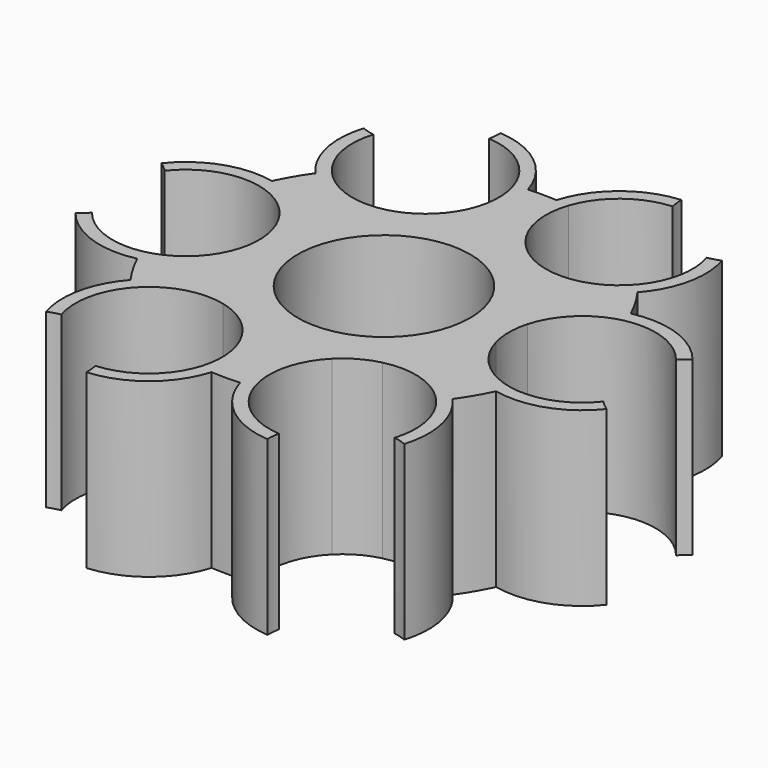
from build123d import *

# Parameters (mm, degrees)
F0_R     = 10
F1_DEPTH = 20


with BuildPart() as f1:
    # F0 (on Top) → F1 (new body)
    with BuildSketch(Plane.XY):
        with BuildLine():
            ThreePointArc((29.666667, -5.273097), (21.337731, -8.335878), (14.820652, -2.312633))
            ThreePointArc((14.820652, -2.312633), (14.5, 0), (14.820652, 2.312633))
            ThreePointArc((14.820652, 2.312633), (21.337731, 8.335878), (29.666667, 5.273097))
            ThreePointArc((29.666667, 5.273097), (30.220826, 5.780095), (30.822917, 6.229123))
            ThreePointArc((30.822917, 6.229123), (26.331077, 9.428888), (20.826087, 9.760845))
            ThreePointArc((20.826087, 9.760845), (19.841569, 11.632375), (18.68932, 13.405571))
            ThreePointArc((18.68932, 13.405571), (21.005287, 17.944736), (20.783802, 23.035774))
            ThreePointArc((20.783802, 23.035774), (20.073237, 22.792248), (19.341877, 22.621019))
            ThreePointArc((19.341877, 22.621019), (17.451033, 14.273836), (9.256765, 11.803063))
            ThreePointArc((9.256765, 11.803063), (7.082131, 12.652803), (5.220726, 14.062149))
            ThreePointArc((5.220726, 14.062149), (2.958081, 18.129936), (3.177151, 22.779502))
            ThreePointArc((3.177151, 22.779502), (2.417192, 22.87263), (1.654554, 22.940411))
            ThreePointArc((1.654554, 22.940411), (0, 23), (-1.654554, 22.940411))
            ThreePointArc((-1.654554, 22.940411), (-4.972729, 27.867393), (-10.500123, 30.043018))
            ThreePointArc((-10.500123, 30.043018), (-10.533434, 29.292619), (-10.641636, 28.549316))
            ThreePointArc((-10.641636, 28.549316), (-3.272802, 23.048837), (-5.220726, 14.062149))
            ThreePointArc((-5.220726, 14.062149), (-7.082131, 12.652803), (-9.256765, 11.803063))
            ThreePointArc((-9.256765, 11.803063), (-17.451033, 14.273836), (-19.341877, 22.621019))
            ThreePointArc((-19.341877, 22.621019), (-20.073237, 22.792248), (-20.783802, 23.035774))
            ThreePointArc((-20.783802, 23.035774), (-21.005287, 17.944736), (-18.68932, 13.405571))
            ThreePointArc((-18.68932, 13.405571), (-19.841569, 11.632375), (-20.826087, 9.760845))
            ThreePointArc((-20.826087, 9.760845), (-26.331077, 9.428888), (-30.822917, 6.229123))
            ThreePointArc((-30.822917, 6.229123), (-30.220826, 5.780095), (-29.666667, 5.273097))
            ThreePointArc((-29.666667, 5.273097), (-21.337731, 8.335878), (-14.820652, 2.312633))
            ThreePointArc((-14.820652, 2.312633), (-14.5, 0), (-14.820652, -2.312633))
            ThreePointArc((-14.820652, -2.312633), (-21.337731, -8.335878), (-29.666667, -5.273097))
            ThreePointArc((-29.666667, -5.273097), (-30.220826, -5.780095), (-30.822917, -6.229123))
            ThreePointArc((-30.822917, -6.229123), (-26.331077, -9.428888), (-20.826087, -9.760845))
            ThreePointArc((-20.826087, -9.760845), (-19.841569, -11.632375), (-18.68932, -13.405571))
            ThreePointArc((-18.68932, -13.405571), (-21.005287, -17.944736), (-20.783802, -23.035774))
            ThreePointArc((-20.783802, -23.035774), (-20.073237, -22.792248), (-19.341877, -22.621019))
            ThreePointArc((-19.341877, -22.621019), (-17.451033, -14.273836), (-9.256765, -11.803063))
            ThreePointArc((-9.256765, -11.803063), (-7.082131, -12.652803), (-5.220726, -14.062149))
            ThreePointArc((-5.220726, -14.062149), (-3.272802, -23.048837), (-10.641636, -28.549316))
            ThreePointArc((-10.641636, -28.549316), (-10.533434, -29.292619), (-10.500123, -30.043018))
            ThreePointArc((-10.500123, -30.043018), (-4.972729, -27.867393), (-1.654554, -22.940411))
            ThreePointArc((-1.654554, -22.940411), (0, -23), (1.654554, -22.940411))
            ThreePointArc((1.654554, -22.940411), (4.972729, -27.867393), (10.500123, -30.043018))
            ThreePointArc((10.500123, -30.043018), (10.533434, -29.292619), (10.641636, -28.549316))
            ThreePointArc((10.641636, -28.549316), (3.272802, -23.048837), (5.220726, -14.062149))
            ThreePointArc((5.220726, -14.062149), (7.082131, -12.652803), (9.256765, -11.803063))
            ThreePointArc((9.256765, -11.803063), (17.451033, -14.273836), (19.341877, -22.621019))
            ThreePointArc((19.341877, -22.621019), (20.073237, -22.792248), (20.783802, -23.035774))
            ThreePointArc((20.783802, -23.035774), (21.005287, -17.944736), (18.68932, -13.405571))
            ThreePointArc((18.68932, -13.405571), (19.841569, -11.632375), (20.826087, -9.760845))
            ThreePointArc((20.826087, -9.760845), (26.331077, -9.428888), (30.822917, -6.229123))
            ThreePointArc((30.822917, -6.229123), (30.220826, -5.780095), (29.666667, -5.273097))
        make_face()
        Circle(F0_R, mode=Mode.SUBTRACT)
        with BuildLine():
            ThreePointArc((1.654554, 22.940411), (2.417192, 22.87263), (3.177151, 22.779502))
            ThreePointArc((3.177151, 22.779502), (6.035405, 26.795099), (10.641636, 28.549316))
            ThreePointArc((10.641636, 28.549316), (10.533434, 29.292619), (10.500123, 30.043018))
            ThreePointArc((10.500123, 30.043018), (4.972729, 27.867393), (1.654554, 22.940411))
        make_face()
    extrude(amount=F1_DEPTH)


solid = f1.part
